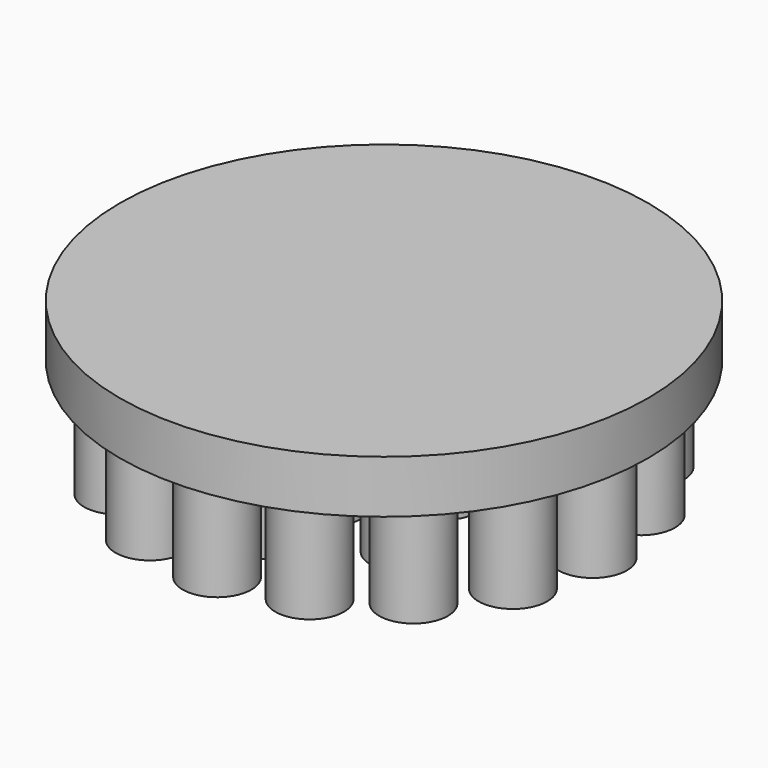
from build123d import *

# Parameters (mm, degrees)
F0_R     = 25
F0_R_2   = 3.25
F0_R_3   = 3
F0_R_4   = 2.5
F0_R_5   = 2
F1_DEPTH = 5
F2_R     = 3.25
F2_R_2   = 3
F2_R_3   = 2.5
F2_R_4   = 2
F3_DEPTH = 15


with BuildPart() as f1:
    # F0 (on Top) → F1 (new body)
    with BuildSketch(Plane.XY):
        Circle(F0_R)
        with Locations((-13.965359, -13.965359)):
            Circle(F0_R_2, mode=Mode.SUBTRACT)
        with Locations((-7.557998, -18.246621)):
            Circle(F0_R_2, mode=Mode.SUBTRACT)
        with Locations((-18.246621, -7.557998)):
            Circle(F0_R_2, mode=Mode.SUBTRACT)
        with Locations((-8.131728, -8.131728)):
            Circle(F0_R_3, mode=Mode.SUBTRACT)
        with Locations((0, -19.75)):
            Circle(F0_R_2, mode=Mode.SUBTRACT)
        with Locations((7.557998, -18.246621)):
            Circle(F0_R_2, mode=Mode.SUBTRACT)
        with Locations((13.965359, -13.965359)):
            Circle(F0_R_2, mode=Mode.SUBTRACT)
        with Locations((0, -12.5)):
            Circle(F0_R_3, mode=Mode.SUBTRACT)
        with Locations((8.131728, -8.131728)):
            Circle(F0_R_3, mode=Mode.SUBTRACT)
        with Locations((0, -6)):
            Circle(F0_R_4, mode=Mode.SUBTRACT)
        with Locations((18.246621, -7.557998)):
            Circle(F0_R_2, mode=Mode.SUBTRACT)
        with Locations((-19.75, 0)):
            Circle(F0_R_2, mode=Mode.SUBTRACT)
        with Locations((-18.246621, 7.557998)):
            Circle(F0_R_2, mode=Mode.SUBTRACT)
        with Locations((-12.5, 0)):
            Circle(F0_R_3, mode=Mode.SUBTRACT)
        with Locations((-6, 0)):
            Circle(F0_R_4, mode=Mode.SUBTRACT)
        with Locations((-8.131728, 8.131728)):
            Circle(F0_R_3, mode=Mode.SUBTRACT)
        with Locations((-13.965359, 13.965359)):
            Circle(F0_R_2, mode=Mode.SUBTRACT)
        with Locations((-7.557998, 18.246621)):
            Circle(F0_R_2, mode=Mode.SUBTRACT)
        Circle(F0_R_5, mode=Mode.SUBTRACT)
        with Locations((6, 0)):
            Circle(F0_R_4, mode=Mode.SUBTRACT)
        with Locations((0, 6)):
            Circle(F0_R_4, mode=Mode.SUBTRACT)
        with Locations((8.131728, 8.131728)):
            Circle(F0_R_3, mode=Mode.SUBTRACT)
        with Locations((12.5, 0)):
            Circle(F0_R_3, mode=Mode.SUBTRACT)
        with Locations((19.75, 0)):
            Circle(F0_R_2, mode=Mode.SUBTRACT)
        with Locations((18.246621, 7.557998)):
            Circle(F0_R_2, mode=Mode.SUBTRACT)
        with Locations((0, 12.5)):
            Circle(F0_R_3, mode=Mode.SUBTRACT)
        with Locations((7.557998, 18.246621)):
            Circle(F0_R_2, mode=Mode.SUBTRACT)
        with Locations((0, 19.75)):
            Circle(F0_R_2, mode=Mode.SUBTRACT)
        with Locations((13.965359, 13.965359)):
            Circle(F0_R_2, mode=Mode.SUBTRACT)
    extrude(amount=F1_DEPTH)

    # F2 (on face) → F3 (join)
    with BuildSketch(Plane.XY.offset(5)):
        with Locations((-19.75, 0)):
            Circle(F2_R)
        with Locations((7.557998, -18.246621)):
            Circle(F2_R)
        with Locations((0, 12.5)):
            Circle(F2_R_2)
        with Locations((19.75, 0)):
            Circle(F2_R)
        with Locations((0, -12.5)):
            Circle(F2_R_2)
        with Locations((-8.131728, -8.131728)):
            Circle(F2_R_2)
        with Locations((6, 0)):
            Circle(F2_R_3)
        with Locations((-18.246621, -7.557998)):
            Circle(F2_R)
        with Locations((8.131728, -8.131728)):
            Circle(F2_R_2)
        with Locations((0, 6)):
            Circle(F2_R_3)
        with Locations((7.557998, 18.246621)):
            Circle(F2_R)
        with Locations((-6, 0)):
            Circle(F2_R_3)
        with Locations((-7.557998, 18.246621)):
            Circle(F2_R)
        with Locations((13.965359, -13.965359)):
            Circle(F2_R)
        with Locations((18.246621, 7.557998)):
            Circle(F2_R)
        with Locations((-13.965359, 13.965359)):
            Circle(F2_R)
        with Locations((-13.965359, -13.965359)):
            Circle(F2_R)
        with Locations((12.5, 0)):
            Circle(F2_R_2)
        Circle(F2_R_4)
        with Locations((-8.131728, 8.131728)):
            Circle(F2_R_2)
        with Locations((-12.5, 0)):
            Circle(F2_R_2)
        with Locations((13.965359, 13.965359)):
            Circle(F2_R)
        with Locations((18.246621, -7.557998)):
            Circle(F2_R)
        with Locations((-18.246621, 7.557998)):
            Circle(F2_R)
        with Locations((-7.557998, -18.246621)):
            Circle(F2_R)
        with Locations((8.131728, 8.131728)):
            Circle(F2_R_2)
        with Locations((0, 19.75)):
            Circle(F2_R)
        with Locations((0, -19.75)):
            Circle(F2_R)
        with Locations((0, -6)):
            Circle(F2_R_3)
    extrude(amount=-F3_DEPTH)


solid = f1.part
